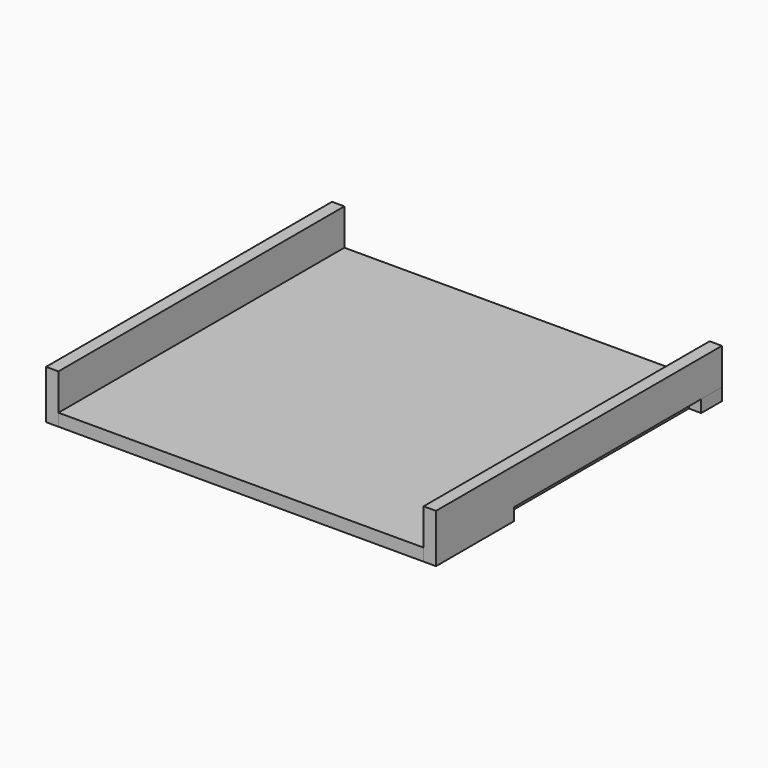
from build123d import *

# Parameters (mm, degrees)
F2_DEPTH = 19
F3_START = -562
F3_DEPTH = 19
F1_W     = 39.7884640843
F1_H     = 19
F4_DEPTH = 19
F5_ANGLE = 90


with BuildPart() as f2:
    # F0 (on Front) → F2 (new body, through all)
    with BuildSketch(Plane.XZ):
        Polygon((573.8910596818, 75), (23.8910596818, 75), (23.8910596818, 19), (423.8910596818, 19), (423.8910596818, 0), (573.8910596818, 0), align=None)
    extrude(amount=F2_DEPTH)


with BuildPart() as f3:
    # F0 (on Front) → F3 (new body)
    with BuildSketch(Plane.XZ.offset(F3_START)):
        Polygon((573.8910596818, 75), (23.8910596818, 75), (23.8910596818, 19), (423.8910596818, 19), (423.8910596818, 0), (573.8910596818, 0), align=None)
    extrude(amount=-F3_DEPTH)


with BuildPart() as f4:
    # F1 (on Top) → F4 (new body, through all)
    with BuildSketch(Plane.XY):
        Polygon((23.8910596818, 562), (23.8910596818, 0), (63.679523766, 0), (573.8910596818, 0), (573.8910596818, 562), (63.679523766, 562), align=None)
        with Locations((43.7852917239, -9.5)):
            Rectangle(F1_W, F1_H)
        with Locations((43.7852917239, 571.5)):
            Rectangle(F1_W, F1_H)
    extrude(amount=F4_DEPTH)


with BuildPart() as f3_1:
    # F5: moved
    add(f3.part.rotate(Axis((23.8910596818, 0, 37.5), (0, 0, -1)), F5_ANGLE))


with BuildPart() as f4_1:
    # F5: moved
    add(f4.part.rotate(Axis((23.8910596818, 0, 37.5), (0, 0, -1)), F5_ANGLE))


with BuildPart() as f2_1:
    # F5: moved
    add(f2.part.rotate(Axis((23.8910596818, 0, 37.5), (0, 0, -1)), F5_ANGLE))


solid = Compound([f3_1.part, f4_1.part, f2_1.part])
